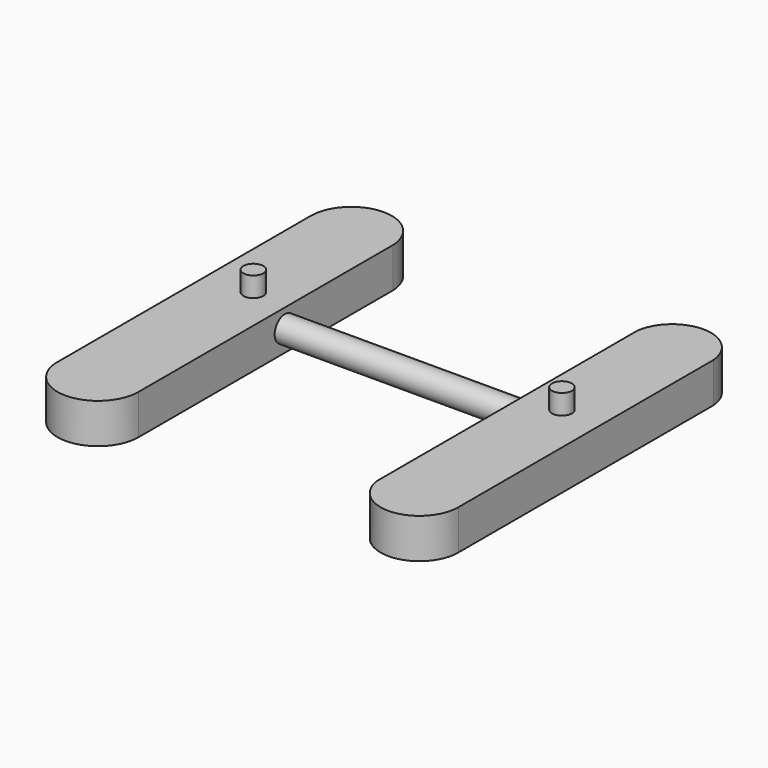
from build123d import *

# Parameters (mm, degrees)
F1_DEPTH = 25.4
F2_R     = 8.146818
F3_DEPTH = 152.4
F4_R     = 6.35
F5_DEPTH = 12.7


with BuildPart() as f1:
    # F0 (on Top) → F1 (new body)
    with BuildSketch(Plane.XY):
        with BuildLine():
            Line((-91.852801, -116.4336), (-91.852801, 85.996719))
            ThreePointArc((-91.852801, 85.996719), (-118.013836, 110.816054), (-143.422504, 85.227018))
            Line((-143.422504, 85.227018), (-143.422504, -117.972982))
            ThreePointArc((-143.422504, -117.972982), (-116.890594, -142.229937), (-91.852801, -116.4336))
        make_face()
        with BuildLine():
            Line((109.807817, -114.124497), (109.807817, 89.075503))
            ThreePointArc((109.807817, 89.075503), (85.523167, 111.582436), (60.547199, 89.845204))
            Line((60.547199, 89.845204), (60.547199, -117.203301))
            ThreePointArc((60.547199, -117.203301), (86.623701, -138.802865), (109.807817, -114.124497))
        make_face()
    extrude(amount=F1_DEPTH)


with BuildPart() as f3:
    # F2 (on face) → F3 (new body)
    with BuildSketch(Plane(origin=(60.547199, 0, 0), x_dir=(0, -1, 0), z_dir=(-1, 0, 0))):
        with Locations((0, 13.550039)):
            Circle(F2_R)
    extrude(amount=F3_DEPTH)


with BuildPart() as f5:
    # F4 (on face) → F5 (new body)
    with BuildSketch(Plane.XY.offset(25.4)):
        with Locations((-114.26793, 2.931065)):
            Circle(F4_R)
        with Locations((84.490866, 0)):
            Circle(F4_R)
    extrude(amount=F5_DEPTH)


solid = Compound([f1.part, f3.part, f5.part])
